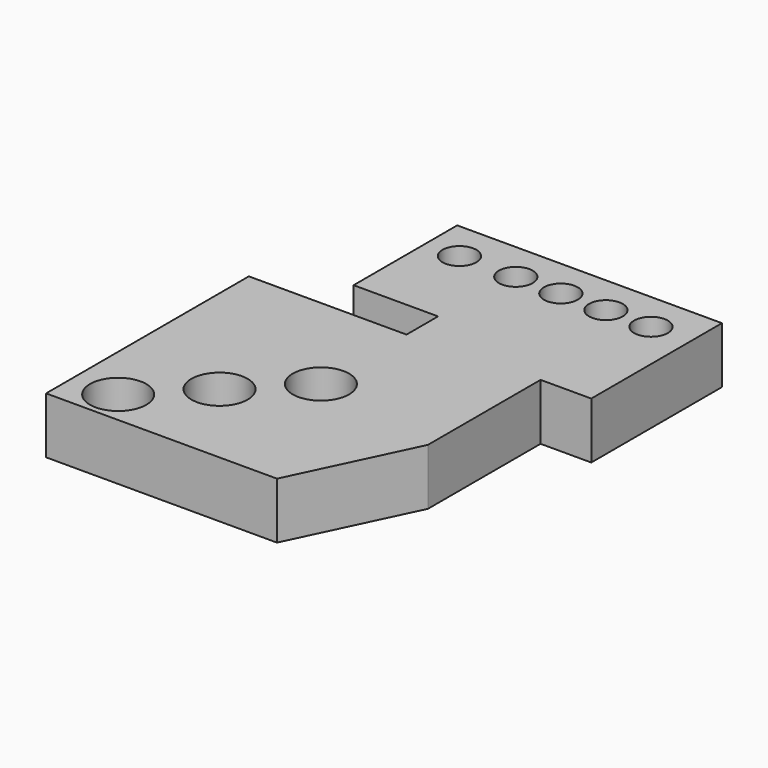
from build123d import *

# Parameters (mm, degrees)
F0_R     = 12.5
F0_R_2   = 7.5
F1_DEPTH = 25


with BuildPart() as f1:
    # F0 (on Top) → F1 (new body)
    with BuildSketch(Plane.XY):
        Polygon((-83.56625, 6.896216), (-83.56625, -105.603784), (-63.56625, -105.603784), (-38.56625, -105.603784), (-13.56625, -105.603784), (18.93375, -105.603784), (43.93375, -53.103784), (43.93375, 9.396216), (66.43375, 9.396216), (66.43375, 81.896216), (-51.06625, 81.896216), (-51.06625, 24.396216), (-13.56625, 24.396216), (-13.56625, 6.896216), align=None)
        with Locations((-63.56625, -90.603784)):
            Circle(F0_R, mode=Mode.SUBTRACT)
        with Locations((-38.56625, -65.603784)):
            Circle(F0_R, mode=Mode.SUBTRACT)
        with Locations((-13.56625, -40.603784)):
            Circle(F0_R, mode=Mode.SUBTRACT)
        with Locations((-36.06625, 64.396216)):
            Circle(F0_R_2, mode=Mode.SUBTRACT)
        with Locations((-11.06625, 64.396216)):
            Circle(F0_R_2, mode=Mode.SUBTRACT)
        with Locations((8.93375, 64.396216)):
            Circle(F0_R_2, mode=Mode.SUBTRACT)
        with Locations((28.93375, 64.396216)):
            Circle(F0_R_2, mode=Mode.SUBTRACT)
        with Locations((48.93375, 64.396216)):
            Circle(F0_R_2, mode=Mode.SUBTRACT)
    extrude(amount=F1_DEPTH)


solid = f1.part
